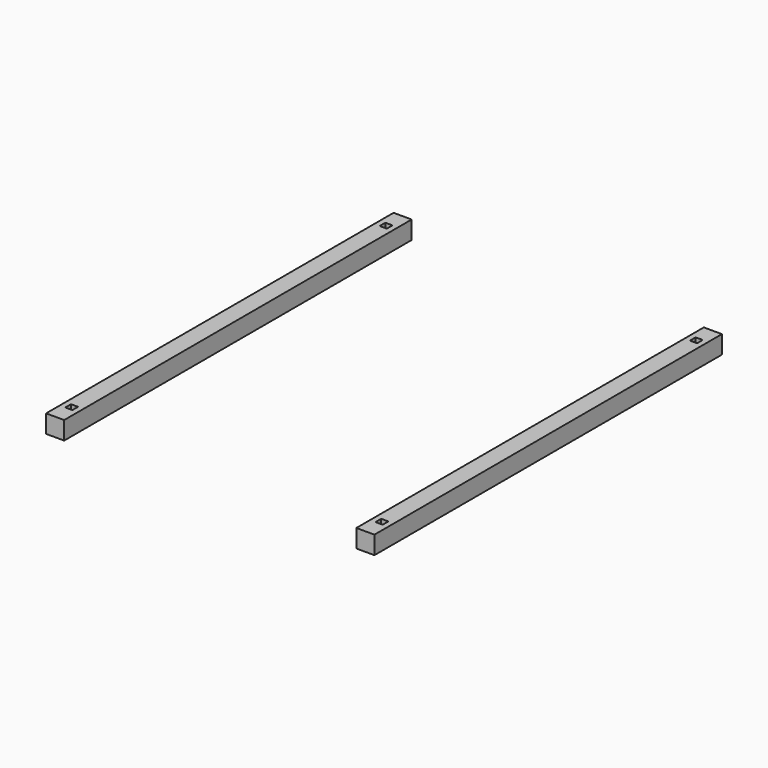
from build123d import *

# Parameters (mm, degrees)
F0_W     = 88.900007
F0_H     = 88.9
F1_DEPTH = 2133.6
F2_W     = 34.925
F2_H     = 34.925
F3_DEPTH = 91.44
F4_W     = 34.925
F4_H     = 34.925
F5_DEPTH = 101.6


with BuildPart() as f1:
    # F0 (on Front) → F1 (new body)
    with BuildSketch(Plane.XZ):
        with Locations((44.450004, 44.45)):
            Rectangle(F0_W, F0_H)
    extrude(amount=F1_DEPTH)

    # F2 (on face) → F3 (cut)
    with BuildSketch(Plane(origin=(0, 0, 0), x_dir=(1, 0, 0), z_dir=(0, 0, -1))):
        with Locations((44.450007, 101.6)):
            Rectangle(F2_W, F2_H)
    extrude(amount=-F3_DEPTH, mode=Mode.SUBTRACT)

    # F4 (on face) → F5 (cut)
    with BuildSketch(Plane(origin=(0, 0, 0), x_dir=(1, 0, 0), z_dir=(0, 0, -1))):
        with Locations((44.45, 2032)):
            Rectangle(F4_W, F4_H)
    extrude(amount=-F5_DEPTH, mode=Mode.SUBTRACT)


with BuildPart() as f6_1:
    # F6: copy of F1
    add(f1.part.moved(Location((1524, 0, 0))))


solid = Compound([f1.part, f6_1.part])
